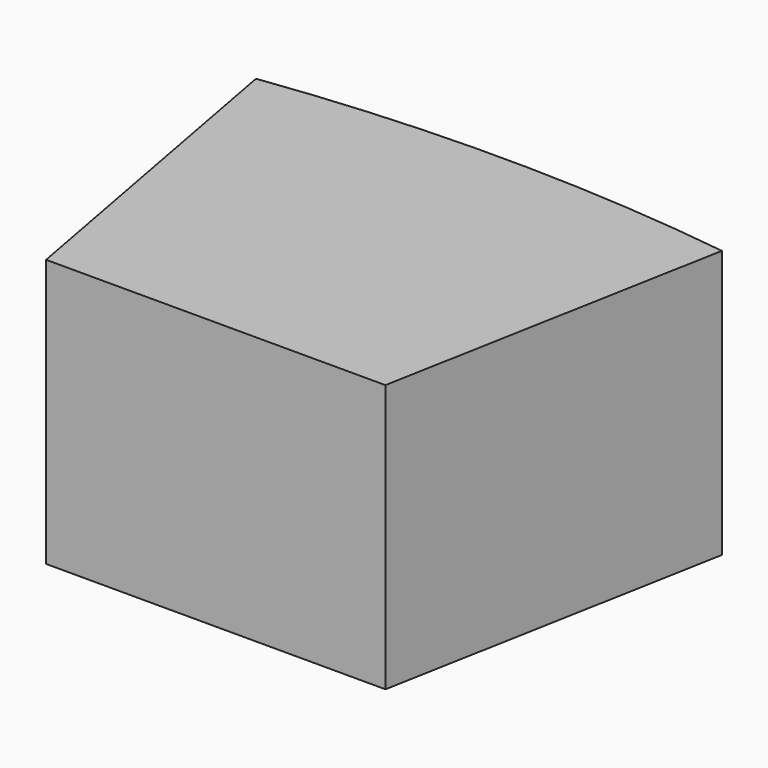
from build123d import *

# Parameters (mm, degrees)
F1_DEPTH = 22.5


with BuildPart() as f1:
    # F0 (on Top) → F1 (new body)
    with BuildSketch(Plane.XY):
        with BuildLine():
            Line((-14.2567, -15), (14.256576, -15))
            Line((14.256576, -15), (19.575, 13.6955))
            ThreePointArc((19.575, 13.6955), (-1.3e-05, 15), (-19.575, 13.695125))
            Line((-19.575, 13.695125), (-14.2567, -15))
        make_face()
    extrude(amount=F1_DEPTH)


solid = f1.part
